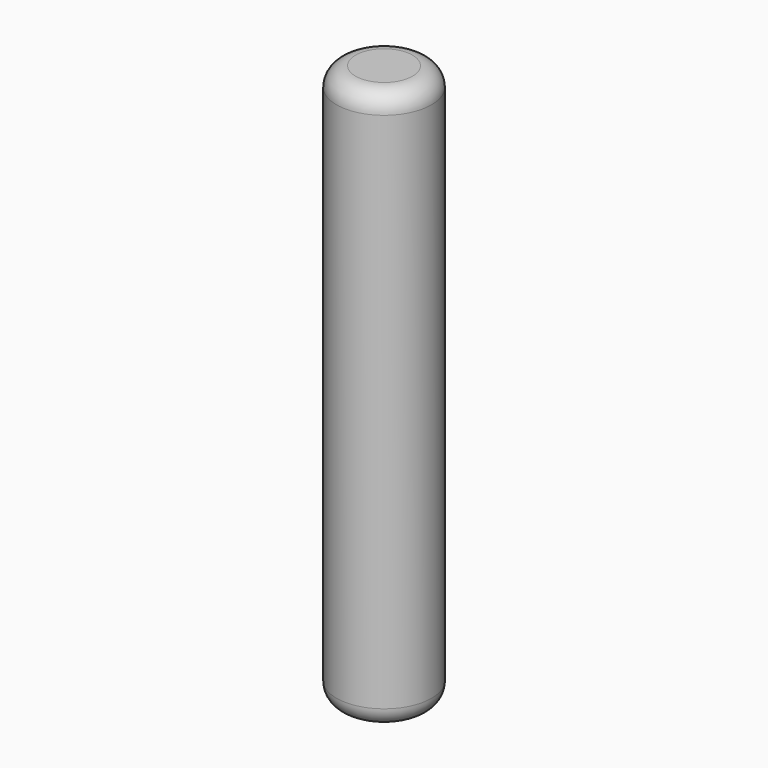
from build123d import *

# Parameters (mm, degrees)
SKETCH_R    = 2.5
PAD_DEPTH   = 29.5
FILLET_R    = 1
FILLET001_R = 1


with BuildPart() as part:
    # Sketch → Pad (new body)
    with BuildSketch(Plane.XY):
        Circle(SKETCH_R)
    extrude(amount=PAD_DEPTH)

    # Fillet
    fillet_edges = [part.edges().sort_by_distance(p)[0] for p in [
        (-2.5, 0, 29.5),
    ]]
    fillet(fillet_edges, radius=FILLET_R)

    # Fillet001
    fillet001_edges = [part.edges().sort_by_distance(p)[0] for p in [
        (-2.5, 0, 0),
    ]]
    fillet(fillet001_edges, radius=FILLET001_R)


solid = part.part
